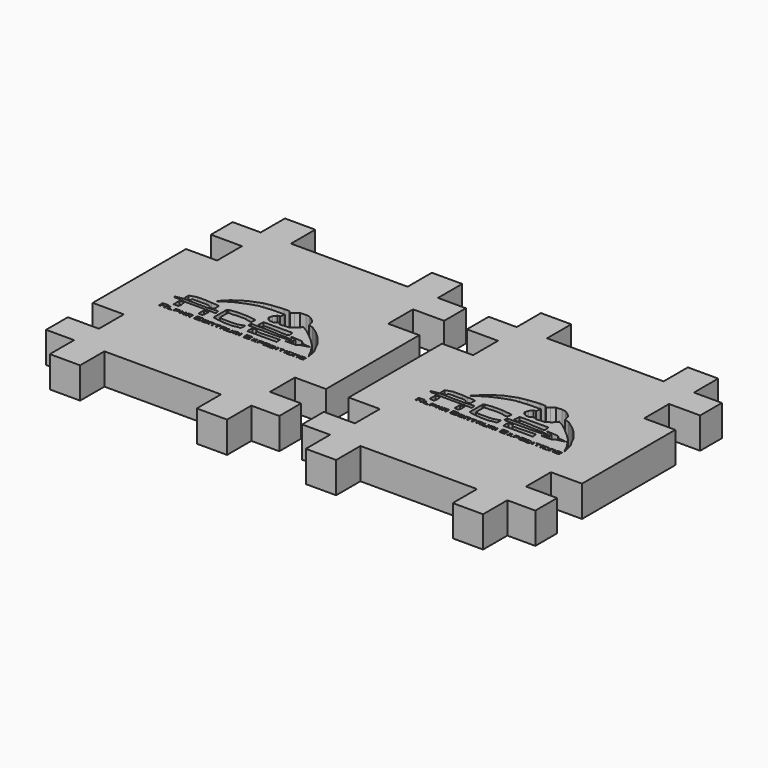
from build123d import *

# Parameters (mm, degrees)
F1_DEPTH = 5.08


with BuildPart() as f1:
    # F0 (on Top) → F1 (new body)
    with BuildSketch(Plane.XY):
        Polygon((-43.995864, -3.045384), (-43.995864, -7.490384), (-39.423864, -7.490384), (-39.423864, -12.443384), (-34.470864, -12.443384), (-34.470864, -7.490384), (-15.420864, -7.490384), (-15.420864, -12.443384), (-10.467864, -12.443384), (-10.467864, -7.490384), (-5.895864, -7.490384), (-5.895864, -3.045384), (-10.975864, -3.045384), (-10.975864, 2.034616), (-5.895864, 2.034616), (-5.895864, 21.084616), (-10.975864, 21.084616), (-10.975864, 26.164616), (-5.895864, 26.164616), (-5.895864, 30.609616), (-10.467864, 30.609616), (-10.467864, 35.562616), (-15.420864, 35.562616), (-15.420864, 30.609616), (-24.945864, 30.609616), (-34.470864, 30.609616), (-34.470864, 35.562616), (-39.423864, 35.562616), (-39.423864, 30.609616), (-43.995864, 30.609616), (-43.995864, 26.164616), (-38.915864, 26.164616), (-38.915864, 21.084616), (-43.995864, 21.084616), (-43.995864, 11.559616), (-43.995864, 2.034616), (-38.915864, 2.034616), (-38.915864, -3.045384), align=None)
        Polygon((-36.768126, 6.783315), (-36.968823, 6.798112), (-36.968823, 7.569217), (-36.005068, 7.569217), (-36.005068, 6.778748), (-36.178696, 6.778748), (-36.178696, 7.094019), (-36.768126, 7.094019), align=None, mode=Mode.SUBTRACT)
        Polygon((-35.707983, 6.774214), (-35.707983, 7.386451), (-35.527255, 7.386451), (-35.527255, 6.907538), (-34.937668, 6.907538), (-34.937668, 6.774214), align=None, mode=Mode.SUBTRACT)
        Polygon((-34.528221, 6.798112), (-34.682754, 6.798112), (-34.682754, 7.386451), (-33.91746, 7.386451), (-33.91746, 7.011455), (-34.528221, 7.011455), align=None, mode=Mode.SUBTRACT)
        Polygon((-35.707238, 8.414068), (-35.707238, 9.424739), (-34.946825, 9.424739), (-34.837845, 8.598813), (-34.946825, 8.174983), (-35.707238, 8.174983), align=None, mode=Mode.SUBTRACT)
        Polygon((-29.995482, 6.719754), (-29.995482, 7.315905), (-29.204424, 7.336666), (-29.204424, 7.197265), (-29.83253, 7.197265), (-29.83253, 7.066765), (-29.239978, 7.066765), (-29.239978, 6.924403), (-29.838453, 6.924403), (-29.838453, 6.805763), (-29.239978, 6.805763), (-29.251832, 6.719754), align=None, mode=Mode.SUBTRACT)
        Polygon((-33.674623, 6.798112), (-33.674623, 7.386451), (-33.468577, 7.386451), (-33.468577, 7.143912), (-33.08225, 7.143912), (-33.08225, 7.386451), (-32.894607, 7.386451), (-32.894607, 6.746546), (-33.056493, 6.746546), (-33.041778, 6.989379), (-33.523771, 6.989379), (-33.512729, 6.794375), align=None, mode=Mode.SUBTRACT)
        Polygon((-32.467875, 6.74351), (-32.646808, 6.757841), (-32.646808, 7.386451), (-31.876209, 7.386451), (-31.876209, 6.729183), (-32.019357, 6.729183), (-32.009813, 6.963235), (-32.484579, 6.963235), align=None, mode=Mode.SUBTRACT)
        Polygon((-31.264286, 6.728844), (-31.264286, 7.497017), (-30.283618, 7.497017), (-30.283618, 7.316095), (-31.012456, 7.316095), (-31.012456, 6.889001), (-30.280653, 6.889001), (-30.283618, 6.728844), align=None, mode=Mode.SUBTRACT)
        Polygon((-28.979252, 6.704924), (-28.979252, 7.315905), (-28.214867, 7.315905), (-28.214867, 7.268448), (-28.214867, 6.660432), (-28.363, 6.660432), (-28.363, 7.173543), (-28.813343, 7.173543), (-28.825189, 6.704924), align=None, mode=Mode.SUBTRACT)
        Polygon((-27.960065, 7.146847), (-27.960065, 7.292178), (-27.234192, 7.321839), (-27.202348, 7.140518), (-27.483064, 7.173543), (-27.483064, 6.687128), (-27.663793, 6.687128), (-27.663793, 7.146847), align=None, mode=Mode.SUBTRACT)
        Polygon((-26.826578, 6.67543), (-26.951011, 6.681361), (-26.951011, 7.292178), (-26.171806, 7.268616), (-26.174772, 6.657635), (-26.358458, 6.672465), (-26.352535, 6.90084), (-26.835467, 6.90084), align=None, mode=Mode.SUBTRACT)
        Polygon((-25.951701, 6.650497), (-25.951701, 7.255548), (-25.805635, 7.266598), (-25.785792, 6.780998), (-25.323603, 6.780998), (-25.311749, 7.279274), (-25.201925, 7.292178), (-25.175463, 6.644566), align=None, mode=Mode.SUBTRACT)
        Polygon((-24.901057, 6.681361), (-24.92452, 7.255548), (-24.164727, 7.255548), (-24.147759, 6.840297), (-24.403627, 6.840297), (-24.150236, 6.681361), (-24.147759, 6.620743), (-24.307679, 6.620743), (-24.750891, 6.87689), (-24.732615, 6.648184), align=None, mode=Mode.SUBTRACT)
        Polygon((-36.793987, 9.739895), (-36.967862, 9.946377), (-35.707238, 10.174592), (-34.750904, 10.174592), (-33.33814, 10.131122), (-31.70802, 10.131122), (-30.056174, 10.250666), (-29.925759, 9.609484), (-34.946825, 9.609484), (-35.989794, 9.739895), align=None, mode=Mode.SUBTRACT)
        Polygon((-31.621087, 8.174983), (-31.621087, 9.261728), (-30.86036, 9.250861), (-30.86036, 8.479272), (-31.012508, 8.131512), align=None, mode=Mode.SUBTRACT)
        Polygon((-35.316016, 10.261533), (-35.707238, 10.435411), (-35.707238, 11.261337), (-34.57703, 11.609093), (-33.099058, 11.609093), (-32.17532, 11.522156), (-31.360264, 11.522156), (-30.882101, 11.380878), (-30.882101, 10.478881), (-31.360264, 10.305003), (-31.751494, 10.565822), (-32.055783, 10.7723), (-34.729171, 10.7723), (-34.729171, 10.381074), align=None, mode=Mode.SUBTRACT)
        Polygon((-29.457542, 8.522325), (-29.457542, 11.224405), (-29.286872, 11.356444), (-27.991275, 11.526163), (-26.436223, 11.526163), (-24.806264, 11.329454), (-24.90073, 10.546696), (-25.292109, 10.546696), (-26.209827, 10.762629), (-27.343477, 10.762629), (-27.883309, 10.695149), (-28.801027, 10.695149), (-28.801027, 10.222797), (-28.801027, 9.424739), (-28.801027, 8.98118), (-28.153229, 8.873214), (-27.006078, 8.873214), (-26.533726, 8.873214), (-25.858934, 8.927197), (-24.860243, 9.261728), (-24.860243, 8.643784), (-24.96821, 8.373869), (-25.386582, 8.373869), (-26.155847, 8.198422), (-27.316484, 8.198422), (-28.693061, 8.360372), align=None, mode=Mode.SUBTRACT)
        Polygon((-23.905586, 6.639038), (-23.905586, 7.255548), (-23.891884, 7.261113), (-23.782774, 7.255548), (-23.756867, 6.621542), align=None, mode=Mode.SUBTRACT)
        Polygon((-23.090578, 6.621542), (-23.122761, 7.409126), (-22.151417, 7.420176), (-22.151417, 7.255548), (-22.920395, 7.261795), (-22.905681, 7.085), (-22.169813, 7.085), (-22.213965, 6.922935), (-22.927757, 6.893468), (-22.905681, 6.816124), (-22.162455, 6.816124), (-22.155098, 6.621542), align=None, mode=Mode.SUBTRACT)
        Polygon((-21.610557, 7.055533), (-21.823957, 7.188131), (-21.82028, 7.217591), (-21.728295, 7.224956), (-21.489139, 7.099726), (-21.261021, 7.202861), (-21.113849, 7.247058), (-21.077055, 7.202861), (-21.154321, 7.138115), (-21.377174, 7.036428), (-21.36772, 6.805071), (-21.066017, 6.628276), (-21.106488, 6.580391), (-21.227907, 6.565661), (-21.478101, 6.731407), (-21.713576, 6.606174), (-21.853394, 6.621542), (-21.610557, 6.812435), align=None, mode=Mode.SUBTRACT)
        Polygon((-20.838711, 6.621542), (-20.861863, 7.188131), (-20.095836, 7.188131), (-20.095836, 6.840446), (-20.680289, 6.840446), (-20.680289, 6.63595), align=None, mode=Mode.SUBTRACT)
        Polygon((-19.823288, 6.578227), (-19.846167, 7.138115), (-19.868865, 7.188131), (-19.074462, 7.203986), (-19.029069, 7.079021), (-19.653241, 7.107423), (-19.641894, 6.94269), (-19.063114, 6.948371), (-19.063114, 6.829084), (-19.687287, 6.834761), (-19.687287, 6.726836), (-19.068788, 6.738198), (-19.051767, 6.579147), align=None, mode=Mode.SUBTRACT)
        Polygon((-18.798163, 6.523895), (-18.824793, 7.175588), (-18.234669, 7.1131), (-18.075789, 6.954052), (-18.098484, 6.7666), (-18.257364, 6.523895), align=None, mode=Mode.SUBTRACT)
        Polygon((-17.823543, 6.589279), (-17.823543, 7.149135), (-17.672122, 7.152819), (-17.672122, 6.570947), align=None, mode=Mode.SUBTRACT)
        Polygon((-17.396744, 7.064418), (-17.396744, 7.149135), (-16.705028, 7.178602), (-16.705028, 7.038635), (-16.969941, 7.053372), (-16.969941, 6.537714), (-17.095036, 6.537714), (-17.131831, 7.060737), align=None, mode=Mode.SUBTRACT)
        Polygon((-16.416806, 6.539431), (-16.416806, 7.136119), (-16.225483, 7.187688), (-16.254916, 6.539431), align=None, mode=Mode.SUBTRACT)
        Polygon((-15.991233, 6.515571), (-15.991233, 7.150278), (-15.250137, 7.15918), (-15.247579, 6.51854), align=None, mode=Mode.SUBTRACT)
        Polygon((-14.819923, 6.528039), (-15.025965, 6.528039), (-15.01125, 7.132095), (-14.245949, 7.132095), (-14.245949, 6.528039), (-14.36369, 6.528039), (-14.36369, 7.014231), (-14.819923, 7.037577), align=None, mode=Mode.SUBTRACT)
        Polygon((-23.751127, 8.652755), (-23.71415, 9.261728), (-22.935155, 9.261728), (-22.793877, 8.919773), (-22.109228, 8.898039), (-18.990274, 9.006713), (-18.920113, 8.258341), (-23.467663, 8.258341), (-23.71415, 8.258341), align=None, mode=Mode.SUBTRACT)
        Polygon((-24.637881, 9.568435), (-24.637881, 10.14441), (-21.877549, 10.144406), (-20.117025, 10.046602), (-18.682524, 10.046602), (-17.704453, 9.894458), (-17.704327, 9.751836), (-18.617316, 9.666243), (-19.660591, 9.568435), align=None, mode=Mode.SUBTRACT)
        Polygon((-23.736889, 10.435411), (-23.71415, 10.546696), (-23.62721, 11.481103), (-19.03028, 11.481103), (-18.889005, 11.328959), (-18.830523, 10.705149), (-19.052017, 10.546696), (-21.942756, 10.709514), (-22.757816, 10.709514), (-22.812153, 10.329154), (-23.377258, 10.329154), align=None, mode=Mode.SUBTRACT)
        Polygon((-18.382139, 10.435411), (-18.213249, 10.546696), (-16.537259, 10.435411), (-16.000941, 9.946377), (-14.657982, 9.821423), (-16.185302, 9.424739), (-16.470219, 9.127703), (-18.280286, 9.127703), (-17.408773, 9.424739), (-17.30838, 9.616808), (-17.477437, 9.826993), (-17.30838, 10.037177), (-17.660356, 10.320282), (-18.246805, 10.374847), align=None, mode=Mode.SUBTRACT)
        Polygon((-14.003116, 6.498576), (-14.003116, 6.63117), (-13.38499, 6.645908), (-13.38499, 6.697469), (-13.432819, 6.763772), (-13.966321, 6.774821), (-13.966321, 7.168927), (-13.2231, 7.154197), (-13.215739, 7.037577), (-13.815469, 6.995817), (-13.815469, 6.9111), (-13.237815, 6.859538), (-13.237815, 6.550142), align=None, mode=Mode.SUBTRACT)
        Polygon((-17.986502, 13.100286), (-18.84574, 13.586086), (-19.405409, 12.914152), (-20.190646, 12.39674), (-21.650681, 12.259861), (-22.024459, 12.598996), (-22.595958, 12.222422), (-23.184615, 12.232059), (-23.600373, 12.429365), (-23.832905, 12.65486), (-23.941602, 12.925592), (-23.795384, 13.473899), (-23.576061, 13.761756), (-23.393299, 14.003926), (-23.055176, 14.049617), (-22.970917, 14.037579), (-22.891924, 14.590509), (-22.824215, 14.817332), (-24.698462, 14.817332), (-26.956211, 14.607311), (-28.391364, 14.143509), (-29.879029, 13.52219), (-30.949342, 12.904659), (-32.221563, 12.066362), (-32.035622, 12.258105), (-30.747282, 13.586651), (-29.038939, 14.71232), (-28.041328, 15.123614), (-26.93871, 15.543663), (-25.766078, 15.753684), (-23.867126, 15.954957), (-23.011719, 15.935749), (-22.607397, 15.543663), (-22.167595, 15.99719), (-21.60938, 16.375006), (-20.716782, 16.445012), (-20.057661, 16.350848), (-19.386637, 15.954957), (-18.852829, 15.394897), (-18.651559, 14.694822), (-18.598938, 14.482594), (-17.851363, 14.261716), (-16.721151, 13.47926), (-15.808284, 12.653333), (-14.591131, 11.224405), (-14.101076, 10.20372), (-13.567268, 9.261728), (-13.155974, 7.441551), (-13.880261, 8.915692), (-14.792401, 10.299978), (-15.886272, 11.385099), (-17.006393, 12.347703), align=None, mode=Mode.SUBTRACT)
        Polygon((-2.162582, -3.060711), (-2.162582, -7.505711), (2.409418, -7.505711), (2.409418, -12.458711), (7.362418, -12.458711), (7.362418, -7.505711), (26.412418, -7.505711), (26.412418, -12.458711), (31.365418, -12.458711), (31.365418, -7.505711), (35.937418, -7.505711), (35.937418, -3.060711), (30.857418, -3.060711), (30.857418, 2.019289), (35.937418, 2.019289), (35.937418, 21.069289), (30.857418, 21.069289), (30.857418, 26.149289), (35.937418, 26.149289), (35.937418, 30.594289), (31.365418, 30.594289), (31.365418, 35.547289), (26.412418, 35.547289), (26.412418, 30.594289), (16.887418, 30.594289), (7.362418, 30.594289), (7.362418, 35.547289), (2.409418, 35.547289), (2.409418, 30.594289), (-2.162582, 30.594289), (-2.162582, 26.149289), (2.917418, 26.149289), (2.917418, 21.069289), (-2.162582, 21.069289), (-2.162582, 11.544289), (-2.162582, 2.019289), (2.917418, 2.019289), (2.917418, -3.060711), align=None)
        Polygon((5.065155, 6.767988), (4.864459, 6.782785), (4.864459, 7.55389), (5.828214, 7.55389), (5.828214, 6.76342), (5.654585, 6.76342), (5.654585, 7.078692), (5.065155, 7.078692), align=None, mode=Mode.SUBTRACT)
        Polygon((9.365407, 6.728183), (9.186473, 6.742514), (9.186473, 7.371123), (9.957072, 7.371123), (9.957072, 6.713855), (9.813924, 6.713855), (9.823468, 6.947908), (9.348702, 6.947908), align=None, mode=Mode.SUBTRACT)
        Polygon((6.125298, 6.758887), (6.125298, 7.371123), (6.306027, 7.371123), (6.306027, 6.892211), (6.895614, 6.892211), (6.895614, 6.758887), align=None, mode=Mode.SUBTRACT)
        Polygon((7.30506, 6.782785), (7.150528, 6.782785), (7.150528, 7.371123), (7.915822, 7.371123), (7.915822, 6.996128), (7.30506, 6.996128), align=None, mode=Mode.SUBTRACT)
        Polygon((8.158658, 6.782785), (8.158658, 7.371123), (8.364704, 7.371123), (8.364704, 7.128585), (8.751032, 7.128585), (8.751032, 7.371123), (8.938675, 7.371123), (8.938675, 6.731219), (8.776788, 6.731219), (8.791503, 6.974052), (8.30951, 6.974052), (8.320552, 6.779048), align=None, mode=Mode.SUBTRACT)
        Polygon((11.8378, 6.704427), (11.8378, 7.300578), (12.628858, 7.321339), (12.628858, 7.181938), (12.000751, 7.181938), (12.000751, 7.051438), (12.593304, 7.051438), (12.593304, 6.909076), (11.994828, 6.909076), (11.994828, 6.790436), (12.593304, 6.790436), (12.58145, 6.704427), align=None, mode=Mode.SUBTRACT)
        Polygon((12.854029, 6.689596), (12.854029, 7.300578), (13.618414, 7.300578), (13.618414, 7.253121), (13.618414, 6.645105), (13.470282, 6.645105), (13.470282, 7.158216), (13.019939, 7.158216), (13.008092, 6.689596), align=None, mode=Mode.SUBTRACT)
        Polygon((13.873216, 7.13152), (13.873216, 7.276851), (14.599089, 7.306512), (14.630933, 7.12519), (14.350217, 7.158216), (14.350217, 6.671801), (14.169489, 6.671801), (14.169489, 7.13152), align=None, mode=Mode.SUBTRACT)
        Polygon((15.006703, 6.660103), (14.882271, 6.666034), (14.882271, 7.276851), (15.661475, 7.253289), (15.65851, 6.642308), (15.474823, 6.657138), (15.480746, 6.885513), (14.997814, 6.885513), align=None, mode=Mode.SUBTRACT)
        Polygon((10.568996, 6.713516), (10.568996, 7.48169), (11.549663, 7.48169), (11.549663, 7.300768), (10.820825, 7.300768), (10.820825, 6.873674), (11.552629, 6.873674), (11.549663, 6.713516), align=None, mode=Mode.SUBTRACT)
        Polygon((6.126043, 8.398741), (6.126043, 9.409412), (6.886457, 9.409412), (6.995436, 8.583486), (6.886457, 8.159656), (6.126043, 8.159656), align=None, mode=Mode.SUBTRACT)
        Polygon((5.039294, 9.724568), (4.86542, 9.93105), (6.126043, 10.159265), (7.082377, 10.159265), (8.495141, 10.115794), (10.125261, 10.115794), (11.777107, 10.235339), (11.907522, 9.594157), (6.886457, 9.594157), (5.843487, 9.724568), align=None, mode=Mode.SUBTRACT)
        Polygon((10.212195, 8.159656), (10.212195, 9.246401), (10.972921, 9.235534), (10.972921, 8.463945), (10.820773, 8.116185), align=None, mode=Mode.SUBTRACT)
        Polygon((6.517266, 10.246206), (6.126043, 10.420083), (6.126043, 11.24601), (7.256251, 11.593766), (8.734223, 11.593766), (9.657961, 11.506829), (10.473017, 11.506829), (10.951181, 11.365551), (10.951181, 10.463554), (10.473017, 10.289676), (10.081787, 10.550495), (9.777498, 10.756973), (7.104111, 10.756973), (7.104111, 10.365746), align=None, mode=Mode.SUBTRACT)
        Polygon((12.375739, 8.506998), (12.375739, 11.209078), (12.54641, 11.341117), (13.842006, 11.510836), (15.397058, 11.510836), (17.027017, 11.314127), (16.932551, 10.531369), (16.541172, 10.531369), (15.623455, 10.747302), (14.489804, 10.747302), (13.949972, 10.679822), (13.032254, 10.679822), (13.032254, 10.20747), (13.032254, 9.409412), (13.032254, 8.965853), (13.680053, 8.857887), (14.827204, 8.857887), (15.299556, 8.857887), (15.974347, 8.91187), (16.973038, 9.246401), (16.973038, 8.628457), (16.865072, 8.358541), (16.446699, 8.358541), (15.677434, 8.183095), (14.516798, 8.183095), (13.140221, 8.345045), align=None, mode=Mode.SUBTRACT)
        Polygon((15.88158, 6.63517), (15.88158, 7.24022), (16.027647, 7.251271), (16.04749, 6.765671), (16.509679, 6.765671), (16.521533, 7.263947), (16.631356, 7.276851), (16.657819, 6.629239), align=None, mode=Mode.SUBTRACT)
        Polygon((16.932224, 6.666034), (16.908762, 7.24022), (17.668554, 7.24022), (17.685522, 6.82497), (17.429654, 6.82497), (17.683045, 6.666034), (17.685522, 6.605416), (17.525603, 6.605416), (17.08239, 6.861563), (17.100666, 6.632856), align=None, mode=Mode.SUBTRACT)
        Polygon((17.927696, 6.623711), (17.927696, 7.24022), (17.941397, 7.245786), (18.050508, 7.24022), (18.076415, 6.606215), align=None, mode=Mode.SUBTRACT)
        Polygon((18.742703, 6.606215), (18.710521, 7.393799), (19.681864, 7.404848), (19.681864, 7.24022), (18.912886, 7.246468), (18.927601, 7.069673), (19.663469, 7.069673), (19.619316, 6.907608), (18.905525, 6.878141), (18.927601, 6.800796), (19.670826, 6.800796), (19.678184, 6.606215), align=None, mode=Mode.SUBTRACT)
        Polygon((20.222724, 7.040206), (20.009325, 7.172804), (20.013001, 7.202263), (20.104986, 7.209628), (20.344142, 7.084399), (20.572261, 7.187534), (20.719432, 7.23173), (20.756227, 7.187534), (20.67896, 7.122788), (20.456107, 7.021101), (20.465561, 6.789743), (20.767265, 6.612949), (20.726793, 6.565064), (20.605375, 6.550334), (20.355181, 6.716079), (20.119705, 6.590846), (19.979887, 6.606215), (20.222724, 6.797108), align=None, mode=Mode.SUBTRACT)
        Polygon((20.99457, 6.606215), (20.971418, 7.172804), (21.737446, 7.172804), (21.737446, 6.825119), (21.152992, 6.825119), (21.152992, 6.620623), align=None, mode=Mode.SUBTRACT)
        Polygon((22.009993, 6.562899), (21.987115, 7.122788), (21.964417, 7.172804), (22.75882, 7.188659), (22.804212, 7.063694), (22.18004, 7.092095), (22.191387, 6.927363), (22.770167, 6.933044), (22.770167, 6.813757), (22.145995, 6.819434), (22.145995, 6.711509), (22.764493, 6.722871), (22.781514, 6.563819), align=None, mode=Mode.SUBTRACT)
        Polygon((23.035118, 6.508568), (23.008489, 7.160261), (23.598612, 7.097773), (23.757492, 6.938725), (23.734797, 6.751272), (23.575918, 6.508568), align=None, mode=Mode.SUBTRACT)
        Polygon((24.009739, 6.573952), (24.009739, 7.133807), (24.16116, 7.137492), (24.16116, 6.55562), align=None, mode=Mode.SUBTRACT)
        Polygon((24.436538, 7.049091), (24.436538, 7.133807), (25.128253, 7.163274), (25.128253, 7.023308), (24.863341, 7.038045), (24.863341, 6.522387), (24.738245, 6.522387), (24.701451, 7.04541), align=None, mode=Mode.SUBTRACT)
        Polygon((25.416475, 6.524104), (25.416475, 7.120791), (25.607799, 7.17236), (25.578365, 6.524104), align=None, mode=Mode.SUBTRACT)
        Polygon((18.082154, 8.637428), (18.119131, 9.246401), (18.898126, 9.246401), (19.039404, 8.904445), (19.724053, 8.882712), (22.843008, 8.991386), (22.913168, 8.243013), (18.365618, 8.243013), (18.119131, 8.243013), align=None, mode=Mode.SUBTRACT)
        Polygon((17.1954, 9.553108), (17.1954, 10.129082), (19.955733, 10.129079), (21.716256, 10.031275), (23.150758, 10.031275), (24.128829, 9.87913), (24.128955, 9.736509), (23.215965, 9.650915), (22.17269, 9.553108), align=None, mode=Mode.SUBTRACT)
        Polygon((18.096393, 10.420083), (18.119131, 10.531369), (18.206072, 11.465776), (22.803002, 11.465776), (22.944276, 11.313632), (23.002758, 10.689821), (22.781265, 10.531369), (19.890525, 10.694187), (19.075465, 10.694187), (19.021128, 10.313827), (18.456024, 10.313827), align=None, mode=Mode.SUBTRACT)
        Polygon((23.451143, 10.420083), (23.620032, 10.531369), (25.296022, 10.420083), (25.832341, 9.93105), (27.175299, 9.806096), (25.64798, 9.409412), (25.363062, 9.112376), (23.552996, 9.112376), (24.424509, 9.409412), (24.524902, 9.601481), (24.355844, 9.811665), (24.524902, 10.02185), (24.172925, 10.304955), (23.586476, 10.35952), align=None, mode=Mode.SUBTRACT)
        Polygon((25.842049, 6.500244), (25.842049, 7.134951), (26.583145, 7.143852), (26.585702, 6.503213), align=None, mode=Mode.SUBTRACT)
        Polygon((27.013358, 6.512712), (26.807316, 6.512712), (26.822031, 7.116768), (27.587332, 7.116768), (27.587332, 6.512712), (27.469591, 6.512712), (27.469591, 6.998904), (27.013358, 7.02225), align=None, mode=Mode.SUBTRACT)
        Polygon((27.830166, 6.483249), (27.830166, 6.615843), (28.448292, 6.63058), (28.448292, 6.682142), (28.400463, 6.748445), (27.86696, 6.759494), (27.86696, 7.1536), (28.610182, 7.13887), (28.617543, 7.02225), (28.017812, 6.980489), (28.017812, 6.895773), (28.595467, 6.844211), (28.595467, 6.534814), align=None, mode=Mode.SUBTRACT)
        Polygon((23.84678, 13.084959), (22.987541, 13.570759), (22.427872, 12.898825), (21.642636, 12.381413), (20.182601, 12.244534), (19.808822, 12.583669), (19.237324, 12.207095), (18.648666, 12.216731), (18.232909, 12.414038), (18.000376, 12.639533), (17.89168, 12.910265), (18.037897, 13.458572), (18.25722, 13.746429), (18.439983, 13.988599), (18.778105, 14.034289), (18.862365, 14.022252), (18.941357, 14.575182), (19.009067, 14.802005), (17.13482, 14.802005), (14.87707, 14.591984), (13.441917, 14.128182), (11.954252, 13.506863), (10.88394, 12.889332), (9.611719, 12.051034), (9.79766, 12.242778), (11.086, 13.571323), (12.794343, 14.696992), (13.791953, 15.108287), (14.894572, 15.528336), (16.067204, 15.738356), (17.966156, 15.93963), (18.821563, 15.920422), (19.225885, 15.528336), (19.665687, 15.981862), (20.223901, 16.359679), (21.116499, 16.429685), (21.77562, 16.335521), (22.446644, 15.93963), (22.980452, 15.37957), (23.181722, 14.679495), (23.234343, 14.467267), (23.981918, 14.246389), (25.11213, 13.463932), (26.024998, 12.638006), (27.242151, 11.209078), (27.732205, 10.188393), (28.266013, 9.246401), (28.677308, 7.426224), (27.95302, 8.900365), (27.040881, 10.284651), (25.947009, 11.369772), (24.826889, 12.332376), align=None, mode=Mode.SUBTRACT)
    extrude(amount=F1_DEPTH)


solid = f1.part
